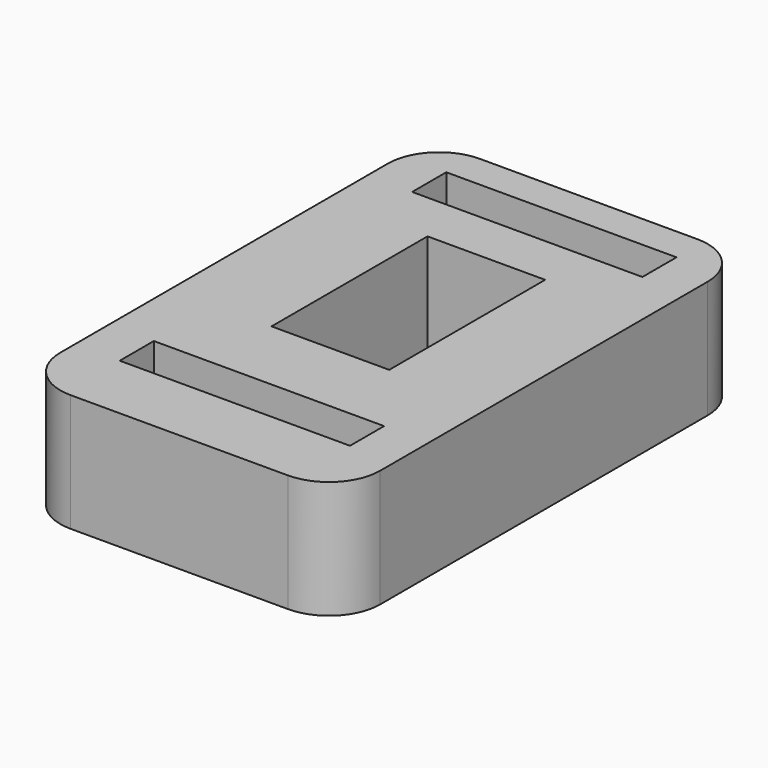
from build123d import *

# Parameters (mm, degrees)
F1_DEPTH = 5.842
F2_W     = 5.842
F2_H     = 9.6774
F2_W_2   = 11.43
F2_H_2   = 2.116666
F2_H_3   = 2.116667
F3_DEPTH = 5.842


with BuildPart() as f1:
    # F0 (on Top) → F1 (new body)
    with BuildSketch(Plane.XY):
        with BuildLine():
            Line((4.632767, -11.371723), (-6.162233, -11.371723))
            ThreePointArc((-6.162233, -11.371723), (-7.958284, -12.115671), (-8.702233, -13.911723))
            Line((-8.702233, -13.911723), (-8.702233, -34.231723))
            ThreePointArc((-8.702233, -34.231723), (-7.958284, -36.027774), (-6.162233, -36.771723))
            Line((-6.162233, -36.771723), (4.632767, -36.771723))
            ThreePointArc((4.632767, -36.771723), (6.428818, -36.027774), (7.172767, -34.231723))
            Line((7.172767, -34.231723), (7.172767, -13.911723))
            ThreePointArc((7.172767, -13.911723), (6.428818, -12.115671), (4.632767, -11.371723))
        make_face()
    extrude(amount=-F1_DEPTH)

    # F2 (on Top) → F3 (cut, through all)
    with BuildSketch(Plane.XY):
        with Locations((-0.764733, -22.560423)):
            Rectangle(F2_W, F2_H)
        with Locations((-0.764733, -32.267456)):
            Rectangle(F2_W_2, F2_H_2)
        with Locations((-0.764733, -14.12339)):
            Rectangle(F2_W_2, F2_H_3)
    extrude(amount=-F3_DEPTH, mode=Mode.SUBTRACT)


solid = f1.part
